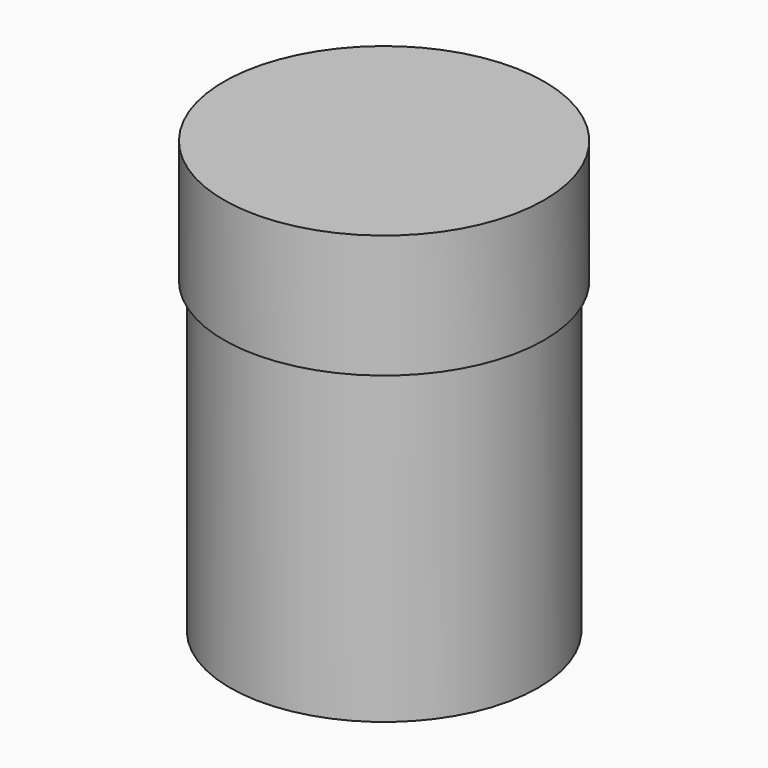
from build123d import *

# Parameters (mm, degrees)
CYLINDER065_R     = 2.6
CYLINDER065_DEPTH = 2
CYLINDER064_R     = 2.5
CYLINDER064_DEPTH = 5


with BuildPart() as cilindro065:
    # Cylinder065 → Cylinder065 (new body)
    with BuildSketch(Plane.XY.offset(5)):
        Circle(CYLINDER065_R)
    extrude(amount=CYLINDER065_DEPTH)


with BuildPart() as obj1:
    # Cylinder064 → Cylinder064 (new body)
    with BuildSketch(Plane.XY):
        Circle(CYLINDER064_R)
    extrude(amount=CYLINDER064_DEPTH)

    # Fusion022: union Cilindro065
    add(cilindro065.part)


solid = obj1.part
